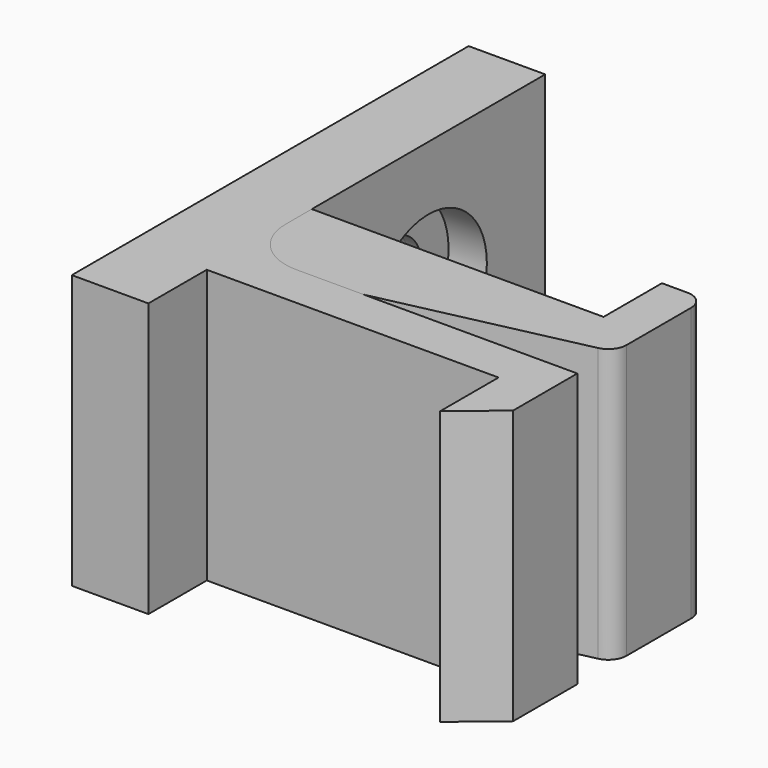
from build123d import *

# Parameters (mm, degrees)
PAD_DEPTH           = 15
HOLE_D              = 4.3
HOLE_DEPTH          = 25
HOLE_CBORE_D        = 8
HOLE_CBORE_DEPTH    = 2.1
PAD001_DEPTH        = 15
HOLE001_D           = 4.3
HOLE001_DEPTH       = 25
HOLE001_CBORE_D     = 8
HOLE001_CBORE_DEPTH = 2.8


with BuildPart() as bottom:
    # Sketch002 → Pad (new body)
    with BuildSketch(Plane.XY):
        with BuildLine():
            Line((0, 0), (21.814893, 4.8))
            ThreePointArc((21.814893, 4.8), (22.379388, 5.150097), (22.6, 5.776638))
            Line((22.6, 5.776638), (22.6, 10.2))
            ThreePointArc((22.6, 10.2), (22.307107, 10.907107), (21.6, 11.2))
            Line((20.2, 11.2), (21.6, 11.2))
            Line((20.2, 7.2), (20.2, 11.2))
            Line((20.2, 7.2), (4.2, 7.2))
            Line((4.2, 7.2), (4.2, 23.2))
            Line((4.2, 23.2), (0, 23.2))
            Line((0, 23.2), (0, 0))
        make_face()
    extrude(amount=PAD_DEPTH)

    # Hole
    with Locations(Plane.YZ.offset(4.2)):
        with Locations((15.2, 7.5)):
            CounterBoreHole(HOLE_D / 2, HOLE_CBORE_D / 2, HOLE_CBORE_DEPTH, depth=HOLE_DEPTH)


with BuildPart() as top:
    # Sketch → Pad001 (new body)
    with BuildSketch(Plane.XY):
        with BuildLine():
            Line((0, 0), (0, 23.2))
            Line((0, 23.2), (4.2, 23.2))
            Line((4.2, 23.2), (4.2, 5.4))
            ThreePointArc((4.2, 5.4), (5.07868, 3.27868), (7.2, 2.4))
            Line((7.2, 2.4), (22.6, 2.4))
            Line((22.6, 2.4), (22.6, 0))
            Line((22.6, 0), (22.6, -2))
            Line((20.2, -4), (22.6, -2))
            Line((20.2, -4), (20.2, 0))
            Line((20.2, 0), (4.2, 0))
            Line((4.2, 0), (4.2, -4))
            Line((4.2, -4), (0, -4))
            Line((0, -4), (0, 0))
        make_face()
    extrude(amount=PAD001_DEPTH)

    # Hole001
    with Locations(Plane.YZ.offset(4.2)):
        with Locations((15.2, 7.5)):
            CounterBoreHole(HOLE001_D / 2, HOLE001_CBORE_D / 2, HOLE001_CBORE_DEPTH, depth=HOLE001_DEPTH)


solid = Compound([bottom.part, top.part])
